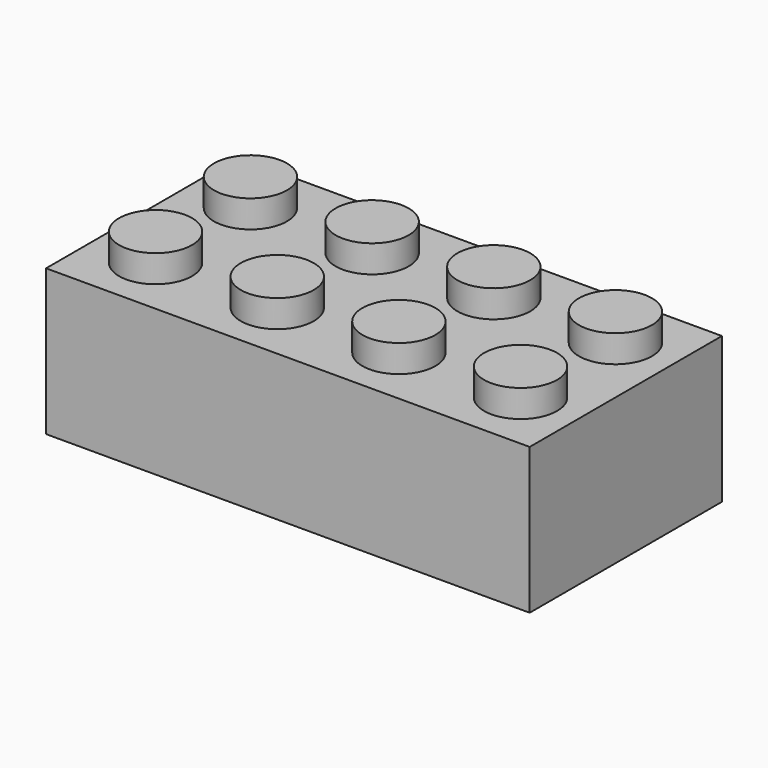
from build123d import *

# Parameters (mm, degrees)
SKETCH_W               = 47.7
SKETCH_H               = 23.7
PAD_DEPTH              = 14.4
SKETCH001_W            = 44.1
SKETCH001_H            = 20.1
POCKET_DEPTH           = 12.6
SKETCH002_R            = 3.6
PAD001_DEPTH           = 2.7
LINEARPATTERN_COUNT    = 4
LINEARPATTERN_PITCH    = 12
SKETCH003_R            = 4.8825
PAD002_DEPTH           = 12.6
LINEARPATTERN001_COUNT = 3
LINEARPATTERN001_PITCH = 12
SKETCH004_R            = 3.6
POCKET001_DEPTH        = 12.6
LINEARPATTERN002_COUNT = 3
LINEARPATTERN002_PITCH = 12


with BuildPart() as part:
    # Sketch → Pad (new body)
    with BuildSketch(Plane.XY):
        with Locations((23.85, -11.85)):
            Rectangle(SKETCH_W, SKETCH_H)
    extrude(amount=PAD_DEPTH)

    # Sketch001 → Pocket (cut)
    with BuildSketch(Plane(origin=(0, 0, 0), x_dir=(1, 0, 0), z_dir=(0, 0, -1))):
        with Locations((23.85, 11.85)):
            Rectangle(SKETCH001_W, SKETCH001_H)
    extrude(amount=-POCKET_DEPTH, mode=Mode.SUBTRACT)

    # Sketch002 → Pad001 (new body)
    with BuildSketch(Plane.XY.offset(14.4)):
        with Locations((6, -17.7)):
            Circle(SKETCH002_R)
        with Locations((6, -6)):
            Circle(SKETCH002_R)
    pad001 = extrude(amount=PAD001_DEPTH)

    # LinearPattern: Pad001 ×4
    with Locations(*[(i * LINEARPATTERN_PITCH, 0, 0) for i in range(1, LINEARPATTERN_COUNT)]):
        add(pad001)

    # Sketch003 → Pad002 (new body)
    with BuildSketch(Plane(origin=(0, 0, 12.6), x_dir=(1, 0, 0), z_dir=(0, 0, -1))):
        with Locations((12, 11.7)):
            Circle(SKETCH003_R)
    pad002 = extrude(amount=PAD002_DEPTH)

    # LinearPattern001: Pad002 ×3
    with Locations(*[(i * LINEARPATTERN001_PITCH, 0, 0) for i in range(1, LINEARPATTERN001_COUNT)]):
        add(pad002)

    # Sketch004 → Pocket001 (cut)
    with BuildSketch(Plane(origin=(0, 0, 0), x_dir=(1, 0, 0), z_dir=(0, 0, -1))):
        with Locations((12, 11.7)):
            Circle(SKETCH004_R)
    pocket001 = extrude(amount=-POCKET001_DEPTH, mode=Mode.SUBTRACT)

    # LinearPattern002: Pocket001 ×3
    with Locations(*[(i * LINEARPATTERN002_PITCH, 0, 0) for i in range(1, LINEARPATTERN002_COUNT)]):
        add(pocket001, mode=Mode.SUBTRACT)


solid = part.part
